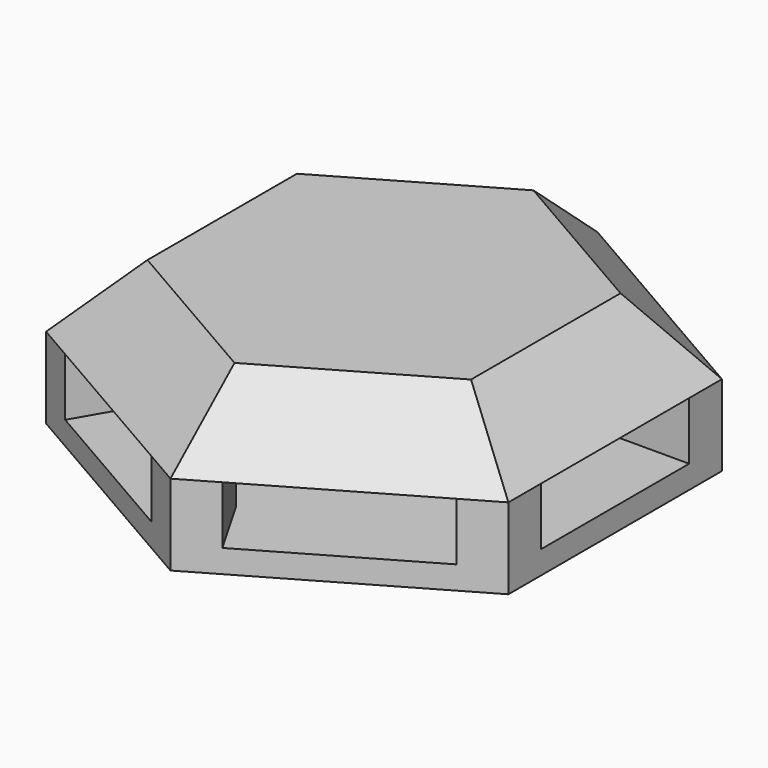
from build123d import *

# Parameters (mm, degrees)
BOX001_W                    = 8
BOX001_H                    = 20
BOX001_DEPTH                = 2.5
ARRAY_COUNT                 = 3
ARRAY_ANGLE                 = 120
PAD_DEPTH                   = 3
PAD_TAPER                   = 45
PAD001_DEPTH                = 3.5
FUSION_PLACEMENT_ANGLE      = 30
BASEFEATURE_PLACEMENT_ANGLE = 30
POCKET_DEPTH                = 3
POCKET_TAPER                = 45
CUT_PLACEMENT_ANGLE         = 30


with BuildPart() as array:
    # Box001 → Box001 (new body)
    with BuildSketch(Plane(origin=(-4, -10, -2.5), x_dir=(1, 0, 0), z_dir=(0, 0, 1))):
        with Locations((4, 10)):
            Rectangle(BOX001_W, BOX001_H)
    extrude(amount=BOX001_DEPTH)

    # Array: Array ×3 about axis
    array_axis = Axis((0, 0, 0), (0, 0, 1))


with BuildPart() as array_1:
    add(array.part)
    for i in range(1, ARRAY_COUNT):
        add(array.part.rotate(array_axis, i * ARRAY_ANGLE / (ARRAY_COUNT - 1)))


with BuildPart() as pad:
    # Sketch → Pad (new body)
    with BuildSketch(Plane.XY):
        Polygon((-11.547005, 0), (-5.773503, -10), (5.773503, -10), (11.547005, 0), (5.773503, 10), (-5.773503, 10), align=None)
    extrude(amount=PAD_DEPTH, taper=PAD_TAPER)


with BuildPart() as cell004:
    # Pad001 base: copy of Pad
    add(pad.part)

    # Sketch → Pad001 (new body)
    with BuildSketch(Plane.XY):
        Polygon((-11.547005, 0), (-5.773503, -10), (5.773503, -10), (11.547005, 0), (5.773503, 10), (-5.773503, 10), align=None)
    extrude(amount=-PAD001_DEPTH)

    # Fusion: union Pad
    add(pad.part)


with BuildPart() as cell004_1:
    # Fusion placement: moved
    add(cell004.part.rotate(Axis((0, 0, 0), (0, 0, 1)), FUSION_PLACEMENT_ANGLE))


with BuildPart() as cell004_2:
    # BaseFeature placement: moved
    add(cell004_1.part.rotate(Axis((0, 0, 0), (0, 0, -1)), BASEFEATURE_PLACEMENT_ANGLE))

    # Sketch002 → Pocket (cut)
    with BuildSketch(Plane(origin=(0, 0, -2), x_dir=(0.866025, 0.5, 0), z_dir=(0, 0, 1))):
        Polygon((0, 8), (-6.928203, 4), (-6.928203, -4), (0, -8), (6.928203, -4), (6.928203, 4), align=None)
    extrude(amount=POCKET_DEPTH, taper=POCKET_TAPER, mode=Mode.SUBTRACT)

    # Cut: cut Array
    add(array_1.part, mode=Mode.SUBTRACT)


with BuildPart() as cell004_3:
    # Cut placement: moved
    add(cell004_2.part.rotate(Axis((0, 0, 0), (0, 0, 1)), CUT_PLACEMENT_ANGLE))


with BuildPart() as cell004_4:
    # Clone003 placement: moved
    add(cell004_3.part.moved(Location((50, 86.60254, 0))))


solid = cell004_4.part
